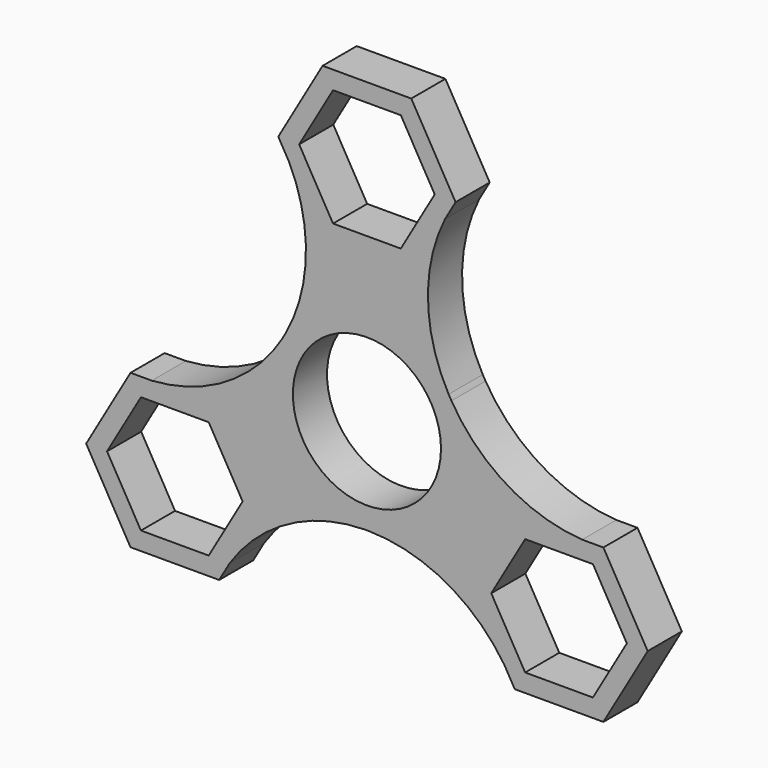
from build123d import *

# Parameters (mm, degrees)
F0_R     = 11.0236
F1_DEPTH = 6.35


with BuildPart() as f1:
    # F0 (on Front) → F1 (new body)
    with BuildSketch(Plane.XZ):
        with BuildLine():
            ThreePointArc((0.3671004027, -14.2827831162), (10.2317545723, -9.9721539611), (14.2875, 0))
            ThreePointArc((14.2875, 0), (13.8530020446, 3.4967113981), (12.5759352613, 6.7807454275))
            ThreePointArc((12.5759352613, 6.7807454275), (12.3650513112, 7.1389657031), (12.1602654275, 7.5007066989))
            ThreePointArc((12.1602654275, 7.5007066989), (0.0192332981, 14.2874870544), (-12.1400270316, 7.5334188734))
            ThreePointArc((-12.1400270316, 7.5334188734), (-12.3634468836, 7.1380393864), (-12.5941456375, 6.7468623753))
            ThreePointArc((-12.5941456375, 6.7468623753), (-12.351516996, -7.1814124061), (-0.3671004027, -14.2827831162))
            ThreePointArc((-0.3671004027, -14.2827831162), (0, -14.2800373238), (0.3671004027, -14.2827831162))
        make_face()
        Circle(F0_R, mode=Mode.SUBTRACT)
        with BuildLine():
            ThreePointArc((12.5759352613, 6.7807454275), (13.8530020446, 3.4967113981), (14.2875, 0))
            ThreePointArc((14.2875, 0), (10.2317545723, -9.9721539611), (0.3671004027, -14.2827831162))
            ThreePointArc((0.3671004027, -14.2827831162), (11.7434168793, -17.2721575555), (20.4219768304, -25.2119014612))
            Line((20.4219768304, -25.2119014612), (15.3979316793, -16.51))
            Line((15.3979316793, -16.51), (21.9970452561, -5.08))
            Line((21.9970452561, -5.08), (32.0385831564, -5.08))
            ThreePointArc((32.0385831564, -5.08), (20.8467310821, -1.5462510774), (12.5759352613, 6.7807454275))
        make_face()
        with BuildLine():
            ThreePointArc((12.1602654275, 7.5007066989), (12.3650513112, 7.1389657031), (12.5759352613, 6.7807454275))
            ThreePointArc((12.5759352613, 6.7807454275), (12.3733379566, 7.14375), (12.1602654275, 7.5007066989))
        make_face()
        with BuildLine():
            ThreePointArc((-0.3671004027, -14.2827831162), (0, -14.2875), (0.3671004027, -14.2827831162))
            ThreePointArc((0.3671004027, -14.2827831162), (0, -14.2800373238), (-0.3671004027, -14.2827831162))
        make_face()
        with BuildLine():
            ThreePointArc((-12.1400270316, 7.5334188734), (0.0192332981, 14.2874870544), (12.1602654275, 7.5007066989))
            ThreePointArc((12.1602654275, 7.5007066989), (9.0842728274, 18.8269242417), (11.619882527, 30.2862269147))
            Line((11.619882527, 30.2862269147), (6.5991135768, 21.59))
            Line((6.5991135768, 21.59), (-6.5991135768, 21.59))
            Line((-6.5991135768, 21.59), (-11.617000966, 30.2812359048))
            ThreePointArc((-11.617000966, 30.2812359048), (-9.0824511669, 18.8430392976), (-12.1400270316, 7.5334188734))
        make_face()
        with BuildLine():
            ThreePointArc((35.1952724098, -5.08), (33.6169277831, -5.1308108988), (32.0385831564, -5.08))
            Line((32.0385831564, -5.08), (21.9970452561, -5.08))
            Line((21.9970452561, -5.08), (15.3979316793, -16.51))
            Line((15.3979316793, -16.51), (20.4219768304, -25.2119014612))
            ThreePointArc((20.4219768304, -25.2119014612), (21.2533288946, -26.5506524823), (21.9970452561, -27.94))
            Line((21.9970452561, -27.94), (35.1952724098, -27.94))
            Line((35.1952724098, -27.94), (41.7943859866, -16.51))
            Line((41.7943859866, -16.51), (35.1952724098, -5.08))
        make_face()
        Polygon((33.640814545, -7.7724), (38.6854702571, -16.51), (33.640814545, -25.2476), (23.5515031209, -25.2476), (18.5068474088, -16.51), (23.5515031209, -7.7724), align=None, mode=Mode.SUBTRACT)
        with BuildLine():
            Line((35.1952724098, -5.08), (32.0385831564, -5.08))
            ThreePointArc((32.0385831564, -5.08), (33.6169277831, -5.1308108988), (35.1952724098, -5.08))
        make_face()
        with BuildLine():
            ThreePointArc((-20.4219768304, -25.2119014612), (-11.7434168793, -17.2721575555), (-0.3671004027, -14.2827831162))
            ThreePointArc((-0.3671004027, -14.2827831162), (-12.351516996, -7.1814124061), (-12.5941456375, 6.7468623753))
            ThreePointArc((-12.5941456375, 6.7468623753), (-20.8597762997, -1.5558862096), (-32.0328200345, -5.08))
            Line((-32.0328200345, -5.08), (-21.9970452561, -5.08))
            Line((-21.9970452561, -5.08), (-15.3979316793, -16.51))
            Line((-15.3979316793, -16.51), (-20.4219768304, -25.2119014612))
        make_face()
        with BuildLine():
            ThreePointArc((21.9970452561, -27.94), (21.2533288946, -26.5506524823), (20.4219768304, -25.2119014612))
            Line((20.4219768304, -25.2119014612), (21.9970452561, -27.94))
        make_face()
        with BuildLine():
            ThreePointArc((-12.5941456375, 6.7468623753), (-12.3634468836, 7.1380393864), (-12.1400270316, 7.5334188734))
            ThreePointArc((-12.1400270316, 7.5334188734), (-12.3733379566, 7.14375), (-12.5941456375, 6.7468623753))
        make_face()
        with BuildLine():
            ThreePointArc((13.1982271537, 33.02), (12.3650513112, 31.6785189067), (11.619882527, 30.2862269147))
            Line((11.619882527, 30.2862269147), (13.1982271537, 33.02))
        make_face()
        with BuildLine():
            Line((6.5991135768, 21.59), (11.619882527, 30.2862269147))
            ThreePointArc((11.619882527, 30.2862269147), (12.3650513112, 31.6785189067), (13.1982271537, 33.02))
            Line((13.1982271537, 33.02), (6.5991135768, 44.45))
            Line((6.5991135768, 44.45), (-6.5991135768, 44.45))
            Line((-6.5991135768, 44.45), (-13.1982271537, 33.02))
            ThreePointArc((-13.1982271537, 33.02), (-12.3634468836, 31.6761178835), (-11.617000966, 30.2812359048))
            Line((-11.617000966, 30.2812359048), (-6.5991135768, 21.59))
            Line((-6.5991135768, 21.59), (6.5991135768, 21.59))
        make_face()
        Polygon((10.0893114241, 33.02), (5.0446557121, 24.2824), (-5.0446557121, 24.2824), (-10.0893114241, 33.02), (-5.0446557121, 41.7576), (5.0446557121, 41.7576), align=None, mode=Mode.SUBTRACT)
        with BuildLine():
            ThreePointArc((-21.9970452561, -27.94), (-21.2533288946, -26.5506524823), (-20.4219768304, -25.2119014612))
            Line((-20.4219768304, -25.2119014612), (-15.3979316793, -16.51))
            Line((-15.3979316793, -16.51), (-21.9970452561, -5.08))
            Line((-21.9970452561, -5.08), (-32.0328200345, -5.08))
            ThreePointArc((-32.0328200345, -5.08), (-33.6140462222, -5.1309998622), (-35.1952724098, -5.08))
            Line((-35.1952724098, -5.08), (-41.7943859866, -16.51))
            Line((-41.7943859866, -16.51), (-35.1952724098, -27.94))
            Line((-35.1952724098, -27.94), (-21.9970452561, -27.94))
        make_face()
        Polygon((-23.5515031209, -25.2476), (-33.640814545, -25.2476), (-38.6854702571, -16.51), (-33.640814545, -7.7724), (-23.5515031209, -7.7724), (-18.5068474088, -16.51), align=None, mode=Mode.SUBTRACT)
        with BuildLine():
            Line((-21.9970452561, -27.94), (-20.4219768304, -25.2119014612))
            ThreePointArc((-20.4219768304, -25.2119014612), (-21.2533288946, -26.5506524823), (-21.9970452561, -27.94))
        make_face()
        with BuildLine():
            Line((-13.1982271537, 33.02), (-11.617000966, 30.2812359048))
            ThreePointArc((-11.617000966, 30.2812359048), (-12.3634468836, 31.6761178835), (-13.1982271537, 33.02))
        make_face()
        with BuildLine():
            ThreePointArc((-35.1952724098, -5.08), (-33.6140462222, -5.1309998622), (-32.0328200345, -5.08))
            Line((-32.0328200345, -5.08), (-35.1952724098, -5.08))
        make_face()
    extrude(amount=F1_DEPTH)


solid = f1.part
